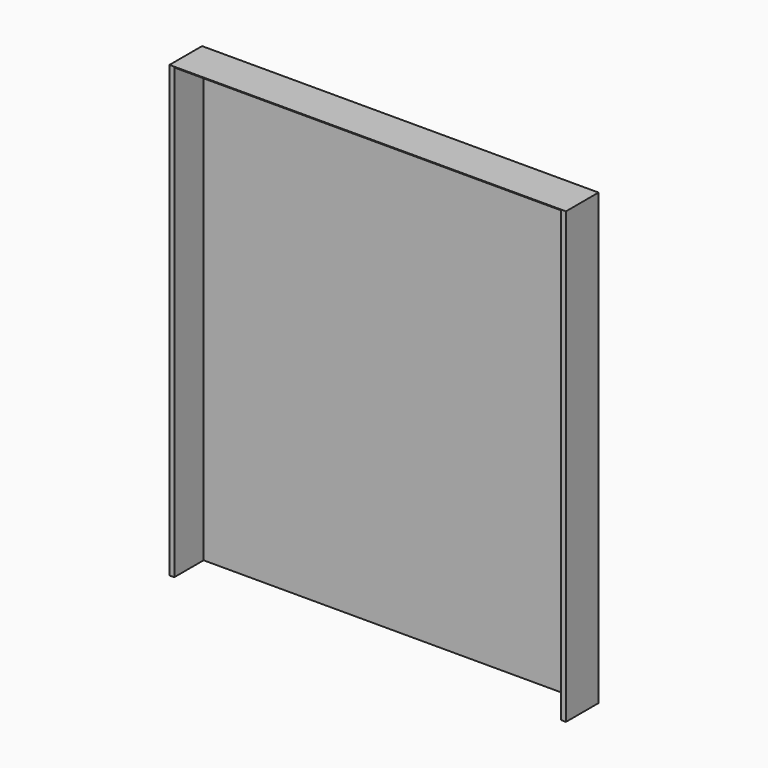
from build123d import *

# Parameters (mm, degrees)
F1_DEPTH = 25.4
F2_DEPTH = 2.54


with BuildPart() as f1:
    # F0 (on Front) → F1 (new body)
    with BuildSketch(Plane.XZ):
        Polygon((-120.65, 139.7), (120.65, 139.7), (120.65, -139.7), (120.65, -140.171826), (123.63416, -140.171826), (123.63416, 140.171826), (-123.63416, 140.171826), (-123.63416, -140.171826), (-120.65, -140.171826), (-120.65, -139.7), align=None)
    extrude(amount=F1_DEPTH)

    # F0 (on Front) → F2 (join)
    with BuildSketch(Plane.XZ):
        Polygon((120.65, -139.7), (120.65, 139.7), (-120.65, 139.7), (-120.65, -139.7), (-120.65, -140.171826), (120.65, -140.171826), align=None)
    extrude(amount=F2_DEPTH)


solid = f1.part
